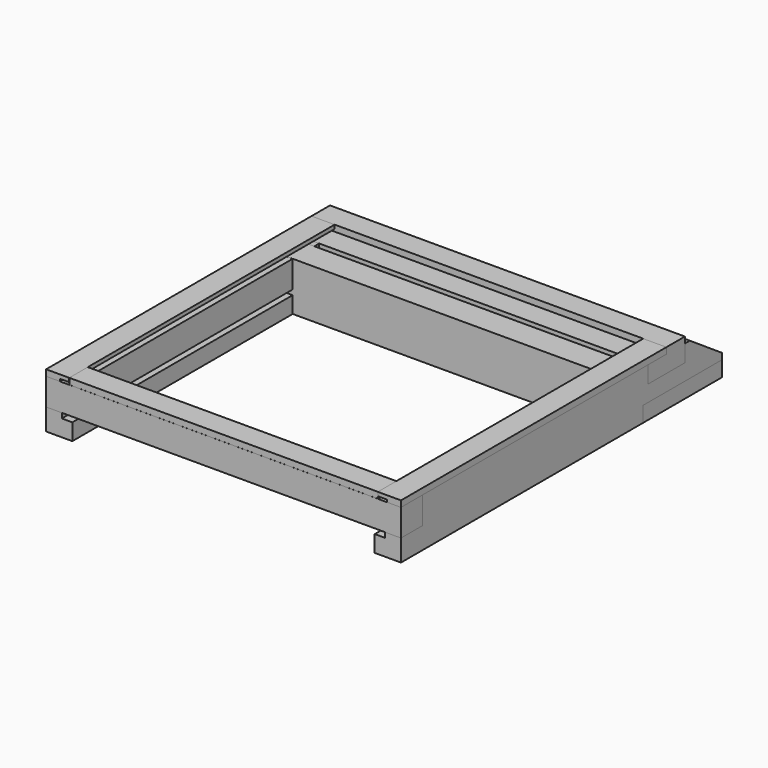
from build123d import *

# Parameters (mm, degrees)
F0_W           = 34
F0_H           = 520
F1_DEPTH       = 63
F2_W           = 35
F2_H           = 35
F2_W_2         = 60
F2_H_2         = 22
F2_W_3         = 127.99
F2_H_3         = 20
F3_DEPTH       = 460.001
F5_DEPTH       = 230
F5_DEPTH_BACK  = 230
F4_W           = 35
F4_H           = 35
F4_W_2         = 127.99
F4_H_2         = 20
F6_W           = 42.871
F6_H           = 6.5
F7_DEPTH       = 392.01
F8_W           = 25.496352553
F8_H           = 35
F9_DEPTH       = 63.001
F11_DEPTH      = 208
F11_DEPTH_BACK = 208
F13_DEPTH      = 430
F15_DEPTH      = 400


with BuildPart() as f1:
    # F0 (on Top) → F1 (new body)
    with BuildSketch(Plane.XY):
        with Locations((-213, -260)):
            Rectangle(F0_W, F0_H)
    extrude(amount=F1_DEPTH)


with BuildPart() as f1b:
    # F0 (on Top) → F1, piece 2 (new body)
    with BuildSketch(Plane.XY):
        with Locations((213, -260)):
            Rectangle(F0_W, F0_H)
    extrude(amount=F1_DEPTH)


with BuildPart() as f3_tool:
    # F2 (on face) → F3 (new body, through all)
    with BuildSketch(Plane.YZ.offset(230)):
        with Locations((-502.5, 45.5)):
            Rectangle(F2_W, F2_H)
        with Locations((-90, 52)):
            Rectangle(F2_W_2, F2_H_2)
        with Locations((-63.995, 10)):
            Rectangle(F2_W_3, F2_H_3)
        Polygon((-52, 69.1977664828), (-52, 63), (0, 28), (7.8393500298, 28), (7.8393500298, 69.1977664828), align=None)
    extrude(amount=-F3_DEPTH)


with BuildPart() as f1_1:
    add(f1.part)

    # F3: cut by f3_tool
    add(f3_tool.part, mode=Mode.SUBTRACT)


with BuildPart() as f1b_1:
    add(f1b.part)

    # F3: cut by f3_tool
    add(f3_tool.part, mode=Mode.SUBTRACT)


with BuildPart() as f5:
    # F4 (on Right) → F5 (new body, two sides)
    with BuildSketch(Plane.YZ) as f5_sk:
        Polygon((-90, 71), (-90, 63), (-120, 63), (-120, 41), (-60, 41), (-60, 71), align=None)
    extrude(amount=-F5_DEPTH)
    extrude(f5_sk.sketch, amount=F5_DEPTH_BACK)


with BuildPart() as f5b:
    # F4 (on Right) → F5, piece 2 (new body, two sides)
    with BuildSketch(Plane.YZ) as f5_2_sk:
        with Locations((-502.5, 45.5)):
            Rectangle(F4_W, F4_H)
    extrude(amount=-F5_DEPTH)
    extrude(f5_2_sk.sketch, amount=F5_DEPTH_BACK)


with BuildPart() as f5c:
    # F4 (on Right) → F5, piece 3 (new body, two sides)
    with BuildSketch(Plane.YZ) as f5_3_sk:
        with Locations((-63.995, 10)):
            Rectangle(F4_W_2, F4_H_2)
    extrude(amount=-F5_DEPTH)
    extrude(f5_3_sk.sketch, amount=F5_DEPTH_BACK)


with BuildPart() as f7_tool:
    # F6 (on face) → F7 (new body, through all)
    with BuildSketch(Plane.XZ.offset(520)):
        with Locations((-188.1759025793, 24.75)):
            Rectangle(F6_W, F6_H)
        with Locations((188.1759025793, 24.75)):
            Rectangle(F6_W, F6_H)
    extrude(amount=-F7_DEPTH)


with BuildPart() as f1_2:
    add(f1_1.part)

    # F7: cut by f7_tool
    add(f7_tool.part, mode=Mode.SUBTRACT)


with BuildPart() as f1b_2:
    add(f1b_1.part)

    # F7: cut by f7_tool
    add(f7_tool.part, mode=Mode.SUBTRACT)


with BuildPart() as f9_tool:
    # F8 (on face) → F9 (new body, through all)
    with BuildSketch(Plane.XY.offset(63)):
        with Locations((-195.2518237235, -145.5)):
            Rectangle(F8_W, F8_H)
        with Locations((195.2518237235, -145.5)):
            Rectangle(F8_W, F8_H)
    extrude(amount=-F9_DEPTH)


with BuildPart() as f1_3:
    add(f1_2.part)

    # F9: cut by f9_tool
    add(f9_tool.part, mode=Mode.SUBTRACT)


with BuildPart() as f1b_3:
    add(f1b_2.part)

    # F9: cut by f9_tool
    add(f9_tool.part, mode=Mode.SUBTRACT)


with BuildPart() as f11:
    # F10 (on Right) → F11 (new body, two sides)
    with BuildSketch(Plane.YZ) as f11_sk:
        Polygon((-163, 63.0713881249), (-163, 0.0713881249), (-128, 0), (-128, 63.0713881249), align=None)
    extrude(amount=-F11_DEPTH)
    extrude(f11_sk.sketch, amount=F11_DEPTH_BACK)


with BuildPart() as f13:
    # F12 (on face) → F13 (new body, through all)
    with BuildSketch(Plane.XZ.offset(520)):
        Polygon((212, 63), (230, 63), (230, 71), (200, 71), (200, 66), (212, 66), align=None)
    extrude(amount=-F13_DEPTH)


with BuildPart() as f13b:
    # F12 (on face) → F13, piece 2 (new body, through all)
    with BuildSketch(Plane.XZ.offset(520)):
        Polygon((-212, 66), (-200, 66), (-200, 71), (-230, 71), (-230, 63), (-212, 63), align=None)
    extrude(amount=-F13_DEPTH)


with BuildPart() as f15:
    # F14 (on face) → F15 (new body, through all)
    with BuildSketch(Plane(origin=(200, 0, 0), x_dir=(0, -1, 0), z_dir=(-1, 0, 0))):
        Polygon((501.9269328117, 62.9998991688), (519.9269328117, 62.9998991688), (519.9269328117, 70.9998991688), (489.9269328117, 70.9998991688), (489.9269328117, 65.9998991688), (501.9269328117, 65.9998991688), align=None)
    extrude(amount=F15_DEPTH)


solid = Compound([f5.part, f5b.part, f5c.part, f1_3.part, f1b_3.part, f11.part, f13.part, f13b.part, f15.part])
